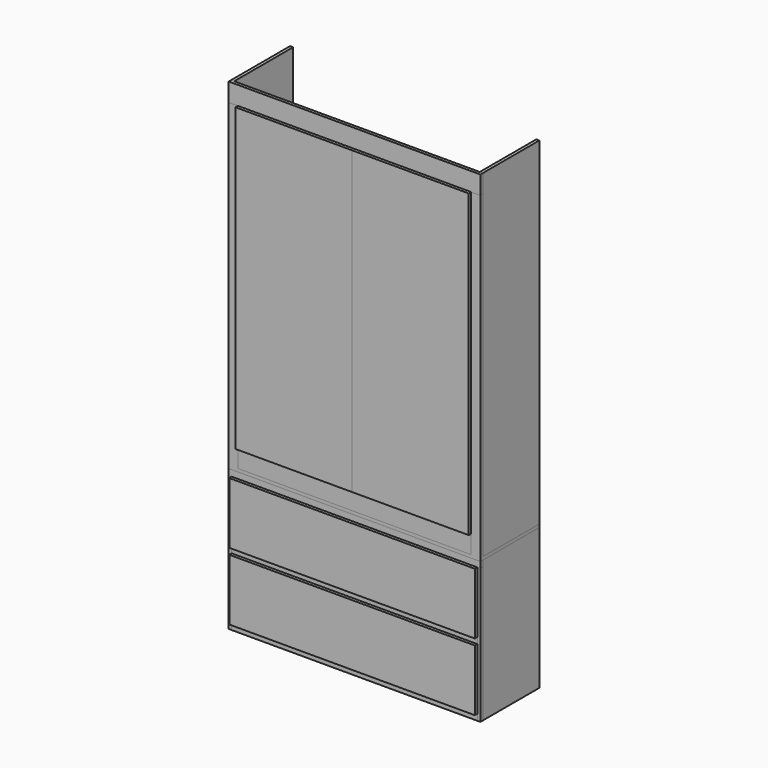
from build123d import *

# Parameters (mm, degrees)
F0_W      = 482.6
F0_H      = 1244.6
F1_DEPTH  = 12.7
F2_W      = 1016
F2_H      = 330.2
F3_DEPTH  = 12.7
F4_W      = 254
F4_H      = 1016
F5_DEPTH  = 12.7
F15_W     = 1016
F15_H     = 254
F23_DEPTH = 12.7
F13_W     = 1016
F13_H     = 254
F18_W     = 482.6
F18_H     = 1244.6
F19_W     = 482.6
F19_H     = 1244.6
F10_W     = 1041.4
F10_H     = 25.4
F24_DEPTH = 12.7
F17_W     = 965.2
F17_H     = 76.2
F14_W     = 1016
F14_H     = 25.4
F16_W     = 1016
F16_H     = 25.4
F22_W     = 1041.4
F22_H     = 76.2
F25_DEPTH = 12.7
F9_W      = 1041.4
F9_H      = 12.7
F26_DEPTH = 304.8
F12_W     = 12.7
F12_H     = 558.8
F11_W     = 12.7
F11_H     = 558.8
F27_DEPTH = 12.7
F20_W     = 38.1
F20_H     = 1320.8
F21_W     = 38.1
F21_H     = 1320.8
F29_DEPTH = 12.7
F31_DEPTH = 12.7
F33_DEPTH = 12.7
F35_DEPTH = 12.7


with BuildPart() as f1:
    # F0 (on Front) → F1 (new body)
    with BuildSketch(Plane.XZ):
        with Locations((-241.3, 216.6910535211)):
            Rectangle(F0_W, F0_H)
    extrude(amount=F1_DEPTH)


with BuildPart() as f3:
    # F2 (on Front) → F3 (new body)
    with BuildSketch(Plane.XZ):
        with Locations((630.2524805069, -146.5007268127)):
            Rectangle(F2_W, F2_H)
    extrude(amount=F3_DEPTH)


with BuildPart() as f5:
    # F4 (on Front) → F5 (new body)
    with BuildSketch(Plane.XZ):
        with Locations((652.4603366852, 1200.6871450653)):
            Rectangle(F4_W, F4_H)
    extrude(amount=F5_DEPTH)


with BuildPart() as f23:
    # F15 (on Front) → F23 (new body)
    with BuildSketch(Plane.XZ):
        with Locations((0, -855.4361613412)):
            Rectangle(F15_W, F15_H)
    extrude(amount=F23_DEPTH)


with BuildPart() as f23b:
    # F13 (on Front) → F23, piece 2 (new body)
    with BuildSketch(Plane.XZ):
        with Locations((0, -576.0361613412)):
            Rectangle(F13_W, F13_H)
    extrude(amount=F23_DEPTH)


with BuildPart() as f23c:
    # F18 (on Front) → F23, piece 3 (new body)
    with BuildSketch(Plane.XZ):
        with Locations((-241.3, 287.5638386588)):
            Rectangle(F18_W, F18_H)
    extrude(amount=F23_DEPTH)


with BuildPart() as f23d:
    # F19 (on Front) → F23, piece 4 (new body)
    with BuildSketch(Plane.XZ):
        with Locations((241.3, 287.5638386588)):
            Rectangle(F19_W, F19_H)
    extrude(amount=F23_DEPTH)


with BuildPart() as f24:
    # F10 (on Front) → F24 (new body)
    with BuildSketch(Plane.XZ):
        with Locations((0, -436.3361613412)):
            Rectangle(F10_W, F10_H)
    extrude(amount=-F24_DEPTH)


with BuildPart() as f24b:
    # F17 (on Front) → F24, piece 2 (new body)
    with BuildSketch(Plane.XZ):
        with Locations((0, -372.8361613412)):
            Rectangle(F17_W, F17_H)
    extrude(amount=-F24_DEPTH)


with BuildPart() as f24c:
    # F14 (on Front) → F24, piece 3 (new body)
    with BuildSketch(Plane.XZ):
        with Locations((0, -715.7361613412)):
            Rectangle(F14_W, F14_H)
    extrude(amount=-F24_DEPTH)


with BuildPart() as f24d:
    # F16 (on Front) → F24, piece 4 (new body)
    with BuildSketch(Plane.XZ):
        with Locations((0, -995.1361613412)):
            Rectangle(F16_W, F16_H)
    extrude(amount=-F24_DEPTH)


with BuildPart() as f25:
    # F22 (on Front) → F25 (new body)
    with BuildSketch(Plane.XZ):
        with Locations((0, 947.9638386588)):
            Rectangle(F22_W, F22_H)
    extrude(amount=-F25_DEPTH)


with BuildPart() as f26:
    # F9 (on Front) → F26 (new body)
    with BuildSketch(Plane.XZ):
        with Locations((0, -417.2861613412)):
            Rectangle(F9_W, F9_H)
    extrude(amount=-F26_DEPTH)

    # F20 (on Front) + F21 (on Front) → F27, piece 2 (join)
    with BuildSketch(Plane.XZ):
        with Locations((-501.65, 249.4638386588)):
            Rectangle(F20_W, F20_H)
    with BuildSketch(Plane.XZ):
        with Locations((501.65, 249.4638386588)):
            Rectangle(F21_W, F21_H)
    extrude(amount=-F27_DEPTH)


with BuildPart() as f27:
    # F12 (on Front) + F11 (on Front) → F27 (new body)
    with BuildSketch(Plane.XZ):
        with Locations((514.35, -728.4361613412)):
            Rectangle(F12_W, F12_H)
    with BuildSketch(Plane.XZ):
        with Locations((-514.35, -728.4361613412)):
            Rectangle(F11_W, F11_H)
    extrude(amount=-F27_DEPTH)


with BuildPart() as f29:
    # F28 (on face) → F29 (new body)
    with BuildSketch(Plane.YZ.offset(520.7)):
        Polygon((304.8, -423.6361613412), (12.7, -423.6361613412), (12.7, -449.0361613412), (12.7, -1007.8361613412), (304.8, -1007.8361613412), align=None)
    extrude(amount=-F29_DEPTH)


with BuildPart() as f31:
    # F30 (on face) → F31 (new body)
    with BuildSketch(Plane(origin=(-520.7, 0, 0), x_dir=(0, -1, 0), z_dir=(-1, 0, 0))):
        Polygon((-12.7, -449.0361613412), (-12.7, -423.6361613412), (-304.8, -423.6361613412), (-304.8, -1007.8361613412), (-12.7, -1007.8361613412), align=None)
    extrude(amount=-F31_DEPTH)


with BuildPart() as f33:
    # F32 (on face) → F33 (new body)
    with BuildSketch(Plane(origin=(-520.7, 0, 0), x_dir=(0, -1, 0), z_dir=(-1, 0, 0))):
        Polygon((-12.7, 909.8638386588), (-12.7, 986.0638386588), (-317.5, 986.0638386588), (-317.5, -410.9361613412), (-12.7, -410.9361613412), align=None)
    extrude(amount=-F33_DEPTH)


with BuildPart() as f35:
    # F34 (on face) → F35 (new body)
    with BuildSketch(Plane.YZ.offset(520.7)):
        Polygon((304.8, 986.0638386588), (12.7, 986.0638386588), (12.7, 909.8638386588), (12.7, -410.9361613412), (304.8, -410.9361613412), align=None)
    extrude(amount=-F35_DEPTH)


solid = Compound([f23.part, f23b.part, f23c.part, f23d.part, f24.part, f24b.part, f24c.part, f24d.part, f25.part, f26.part, f27.part, f29.part, f31.part, f33.part, f35.part])
